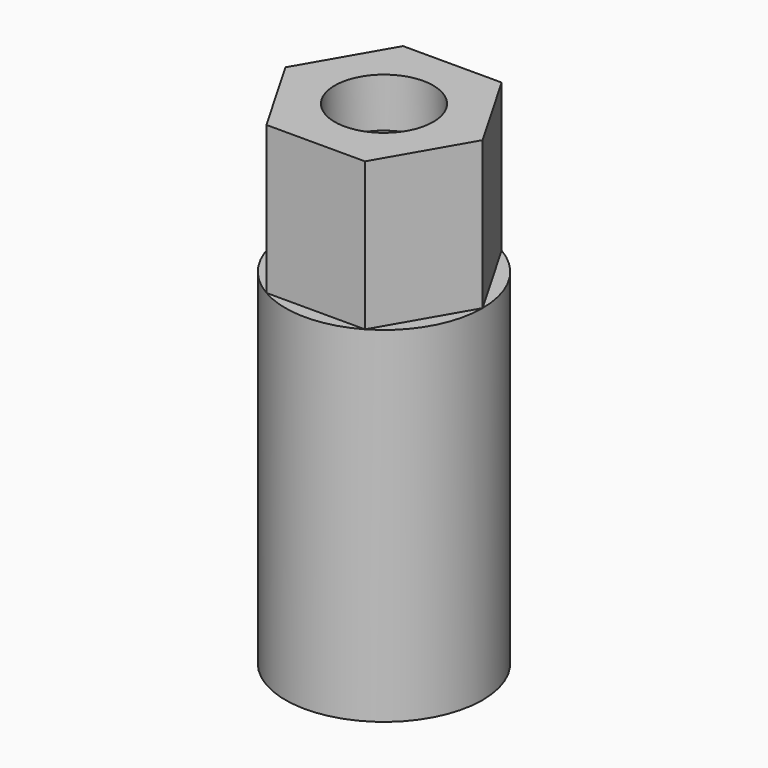
from build123d import *

# Parameters (mm, degrees)
F0_R     = 25.4
F1_DEPTH = 127
F3_DEPTH = 38.1
F4_R     = 12.7
F5_DEPTH = 12.7


with BuildPart() as f1:
    # F0 (on Top) → F1 (new body)
    with BuildSketch(Plane.XY):
        Circle(F0_R)
    extrude(amount=F1_DEPTH)

    # F2 (on face) → F3 (cut)
    with BuildSketch(Plane.XY.offset(127)):
        with BuildLine():
            ThreePointArc((-25.4, 0), (-21.997045, -12.7), (-12.7, -21.997045))
            Line((-12.7, -21.997045), (-25.4, 0))
        make_face()
        with BuildLine():
            ThreePointArc((-12.7, -21.997045), (0, -25.4), (12.7, -21.997045))
            Line((12.7, -21.997045), (-12.7, -21.997045))
        make_face()
        with BuildLine():
            ThreePointArc((12.7, -21.997045), (21.997045, -12.7), (25.4, 0))
            Line((25.4, 0), (12.7, -21.997045))
        make_face()
        with BuildLine():
            Line((12.7, 21.997045), (25.4, 0))
            ThreePointArc((25.4, 0), (21.997045, 12.7), (12.7, 21.997045))
        make_face()
        with BuildLine():
            Line((-12.7, 21.997045), (12.7, 21.997045))
            ThreePointArc((12.7, 21.997045), (0, 25.4), (-12.7, 21.997045))
        make_face()
        with BuildLine():
            Line((-25.4, 0), (-12.7, 21.997045))
            ThreePointArc((-12.7, 21.997045), (-21.997045, 12.7), (-25.4, 0))
        make_face()
    extrude(amount=-F3_DEPTH, mode=Mode.SUBTRACT)

    # F4 (on face) → F5 (cut, symmetric)
    with BuildSketch(Plane.XY.offset(127)):
        Circle(F4_R)
    extrude(amount=F5_DEPTH, both=True, mode=Mode.SUBTRACT)


solid = f1.part
